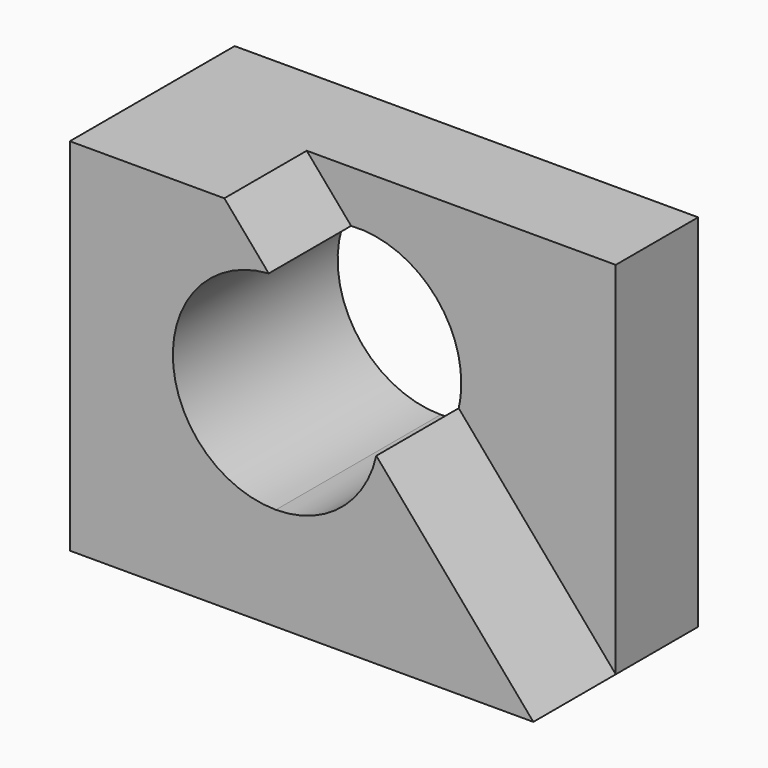
from build123d import *

# Parameters (mm, degrees)
F0_W     = 114.3
F0_H     = 88.9
F1_DEPTH = 25.4
F3_DEPTH = 25.4
F5_DEPTH = 50.8


with BuildPart() as f1:
    # F0 (on Front) → F1 (new body)
    with BuildSketch(Plane.XZ):
        with Locations((-0.7014218356, -5.7260454797)):
            Rectangle(F0_W, F0_H)
    extrude(amount=F1_DEPTH)

    # F2 (on face) → F3 (join)
    with BuildSketch(Plane.XZ.offset(25.4)):
        Polygon((-19.7514218356, 38.7239545203), (-57.8514218356, 38.7239545203), (-57.8514218356, -50.1760454797), (56.4485781644, -50.1760454797), align=None)
    extrude(amount=F3_DEPTH)

    # F4 (on face) → F5 (cut)
    with BuildSketch(Plane.XZ.offset(50.8)):
        with BuildLine():
            ThreePointArc((-8.8132691571, 25.9627763954), (-25.6243984679, 17.9503661228), (-32.4514218356, 0.6239545203))
            Line((-32.4514218356, 0.6239545203), (-7.0514218356, 0.6239545203))
            Line((-7.0514218356, 0.6239545203), (-7.0514218356, 23.9072878537))
            Line((-7.0514218356, 23.9072878537), (-8.8132691571, 25.9627763954))
        make_face()
        with BuildLine():
            ThreePointArc((-32.4514218356, 0.6239545203), (-25.0119340777, -17.3365577218), (-7.0514218356, -24.7760454797))
            Line((-7.0514218356, -24.7760454797), (-7.0514218356, 0.6239545203))
            Line((-7.0514218356, 0.6239545203), (-32.4514218356, 0.6239545203))
        make_face()
        with BuildLine():
            Line((-7.0514218356, 0.6239545203), (-7.0514218356, -24.7760454797))
            ThreePointArc((-7.0514218356, -24.7760454797), (8.7994722887, -19.2231902481), (17.7198372506, -4.9925144135))
            Line((17.7198372506, -4.9925144135), (-7.0514218356, 23.9072878537))
            Line((-7.0514218356, 23.9072878537), (-7.0514218356, 0.6239545203))
        make_face()
        with BuildLine():
            Line((-7.0514218356, 23.9072878537), (17.7198372506, -4.9925144135))
            ThreePointArc((17.7198372506, -4.9925144135), (18.1909035405, -2.2018214095), (18.3485781644, 0.6239545203))
            ThreePointArc((18.3485781644, 0.6239545203), (10.2749897668, 19.1969311526), (-8.8132691571, 25.9627763954))
            Line((-8.8132691571, 25.9627763954), (-7.0514218356, 23.9072878537))
        make_face()
    extrude(amount=-F5_DEPTH, mode=Mode.SUBTRACT)


solid = f1.part
